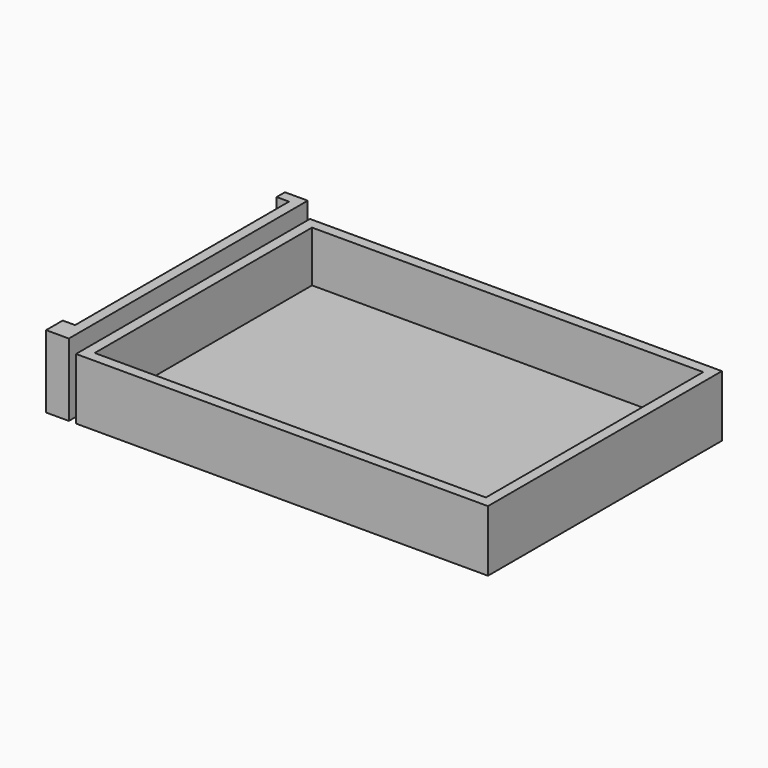
from build123d import *

# Parameters (mm, degrees)
SKETCH_W     = 40.5
SKETCH_H     = 129
PAD_DEPTH    = 18.5
SKETCH001_W  = 22
SKETCH001_H  = 129
PAD001_DEPTH = 18.5
SKETCH002_W  = 18.5
SKETCH002_H  = 129
PAD002_DEPTH = 512.5
SKETCH003_W  = 129
SKETCH003_H  = 18.5
PAD003_DEPTH = 22
SKETCH004_W  = 732.6
SKETCH004_H  = 520
PAD004_DEPTH = 18.5
SKETCH005_W  = 732.6
SKETCH005_H  = 18.5
PAD005_DEPTH = 90.5
SKETCH006_W  = 18.5
SKETCH006_H  = 483
PAD006_DEPTH = 90.5


with BuildPart() as obj1:
    # Sketch → Pad (new body)
    with BuildSketch(Plane.XZ):
        with Locations((20.25, 64.5)):
            Rectangle(SKETCH_W, SKETCH_H)
    extrude(amount=PAD_DEPTH)

    # Sketch001 (on Face5 of Pad) → Pad001 (join)
    with BuildSketch(Plane(origin=(0, 0, 0), x_dir=(1, 0, 0), z_dir=(0, 1, 0))):
        with Locations((11, -64.5)):
            Rectangle(SKETCH001_W, SKETCH001_H)
    extrude(amount=PAD001_DEPTH)

    # Sketch002 (on Face5 of Pad001) → Pad002 (join)
    with BuildSketch(Plane(origin=(0, 0, 0), x_dir=(1, 0, 0), z_dir=(0, 1, 0))):
        with Locations((31.25, -64.5)):
            Rectangle(SKETCH002_W, SKETCH002_H)
    extrude(amount=PAD002_DEPTH)

    # Sketch003 (on Face11 of Pad002) → Pad003 (join)
    with BuildSketch(Plane(origin=(22, 0, 0), x_dir=(0, 0, -1), z_dir=(-1, 0, 0))):
        with Locations((-64.5, -503.25)):
            Rectangle(SKETCH003_W, SKETCH003_H)
    extrude(amount=PAD003_DEPTH)


with BuildPart() as obj2:
    # Sketch004 → Pad004 (new body)
    with BuildSketch(Plane.XY):
        with Locations((419.5, 241.5)):
            Rectangle(SKETCH004_W, SKETCH004_H)
    extrude(amount=PAD004_DEPTH)

    # Sketch005 (on Face6 of Pad004) → Pad005 (join)
    with BuildSketch(Plane.XY.offset(18.5)):
        with Locations((419.5, 492.25)):
            Rectangle(SKETCH005_W, SKETCH005_H)
        with Locations((419.5, -9.25)):
            Rectangle(SKETCH005_W, SKETCH005_H)
    extrude(amount=PAD005_DEPTH)

    # Sketch006 (on Face8 of Pad005) → Pad006 (join)
    with BuildSketch(Plane.XY.offset(18.5)):
        with Locations((62.45, 241.5)):
            Rectangle(SKETCH006_W, SKETCH006_H)
        with Locations((776.55, 241.5)):
            Rectangle(SKETCH006_W, SKETCH006_H)
    extrude(amount=PAD006_DEPTH)


solid = Compound([obj1.part, obj2.part])
